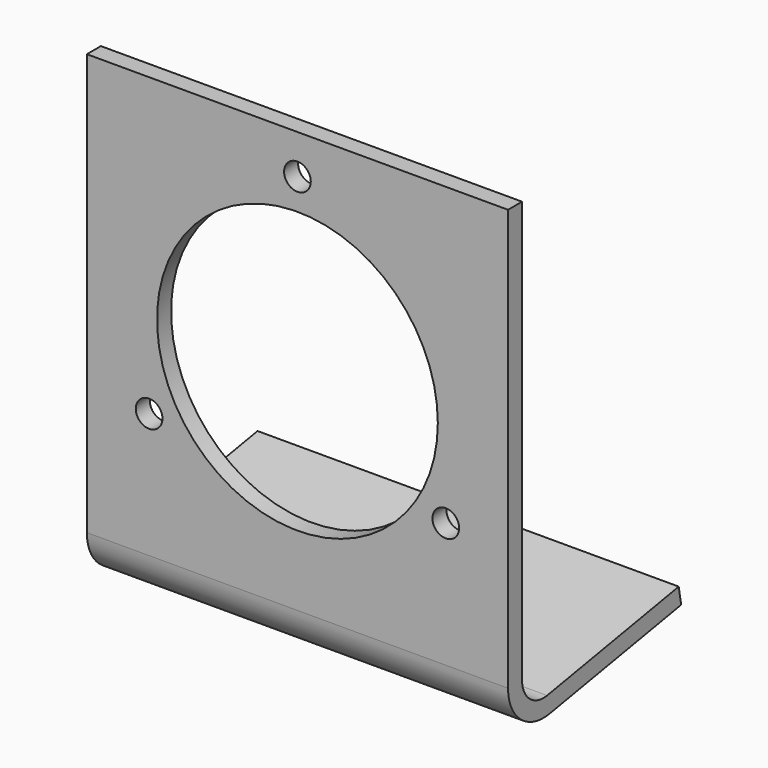
from build123d import *

# Parameters (mm, degrees)
F1_DEPTH = 38.1
F2_R     = 25.4
F2_R_2   = 2.413
F3_DEPTH = 25.4
F4_R     = 3.429
F5_DEPTH = 25.4


with BuildPart() as f1:
    # F0 (on Right) → F1 (new body, symmetric)
    with BuildSketch(Plane.YZ):
        with BuildLine():
            ThreePointArc((5.6640261054, -4.752682216), (1.7239069957, -3.6969304825), (0, 0))
            Line((0, 0), (0, 76.2))
            Line((0, 76.2), (-3.175, 76.2))
            Line((-3.175, 76.2), (-3.175, 0))
            ThreePointArc((-3.175, 0), (-0.3169436651, -6.1291215894), (6.2153590695, -7.8794468319))
            Line((6.2153590695, -7.8794468319), (35.9767941298, -2.6317028461))
            Line((35.9767941298, -2.6317028461), (35.4254611657, 0.4950617697))
            Line((35.4254611657, 0.4950617697), (5.6640261054, -4.752682216))
        make_face()
    extrude(amount=F1_DEPTH, both=True)

    # F2 (on face) → F3 (cut)
    with BuildSketch(Plane.XZ.offset(3.175)):
        with Locations((0, 38.1)):
            Circle(F2_R)
        with Locations((-26.8363952125, 22.606)):
            Circle(F2_R_2)
        with Locations((0, 69.088)):
            Circle(F2_R_2)
        with Locations((26.8363952125, 22.606)):
            Circle(F2_R_2)
    extrude(amount=-F3_DEPTH, mode=Mode.SUBTRACT)

    # F4 (on face) → F5 (cut)
    with BuildSketch(Plane(origin=(0, 0.9835478115, -5.5779768219), x_dir=(1, 0, 0), z_dir=(0, -0.1736481777, 0.984807753))):
        with Locations((19.05, 15.9232353842)):
            Circle(F4_R)
        with Locations((-19.05, 15.9232353842)):
            Circle(F4_R)
    extrude(amount=-F5_DEPTH, mode=Mode.SUBTRACT)


solid = f1.part
